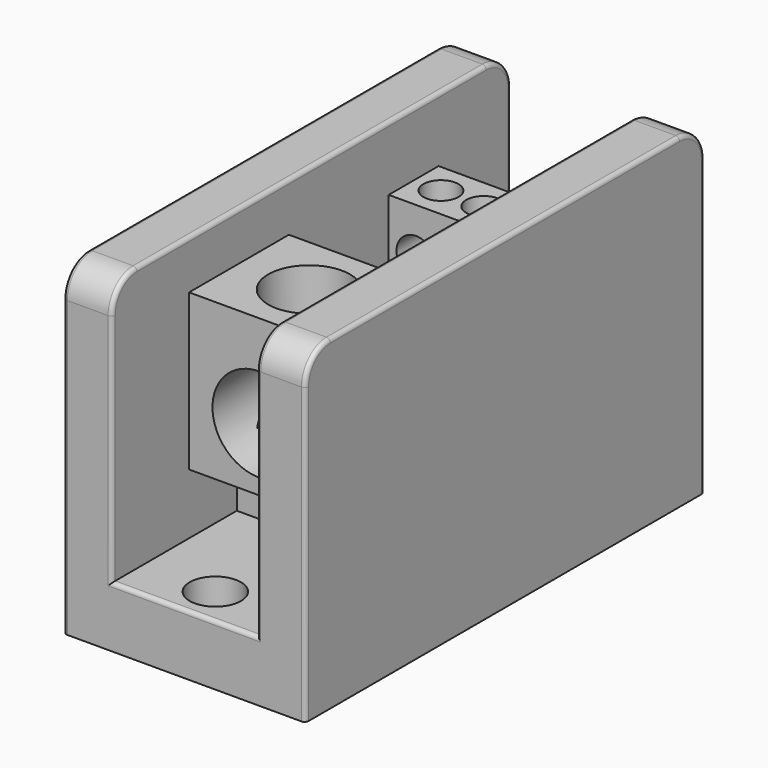
from build123d import *

# Parameters (mm, degrees)
F0_W      = 49.276
F0_H      = 101.6
F1_DEPTH  = 66.294
F2_W      = 29.464
F2_H      = 101.6
F3_DEPTH  = 53.975
F4_R      = 2.54
F5_DEPTH  = 12.319
F6_R      = 5.207
F7_DEPTH  = 6.477
F8_R      = 6.35
F9_R      = 0.8128
F10_W     = 29.464
F10_H     = 38.1
F11_DEPTH = 12.7
F12_W     = 28.575
F12_H     = 63.5
F13_DEPTH = 31.75
F14_R     = 9.525
F15_DEPTH = 25.4
F16_W     = 28.575
F16_H     = 12.7
F17_DEPTH = 3.175
F18_W     = 28.575
F18_H     = 25.4
F19_DEPTH = 16.66875
F20_R     = 8.334375
F21_DEPTH = 25.4
F22_R     = 3.571875
F23_DEPTH = 12.7
F24_R     = 3.571875
F25_DEPTH = 12.7
F26_R     = 3.96875
F27_DEPTH = 25.4


with BuildPart() as f1:
    # F0 (on Top) → F1 (new body)
    with BuildSketch(Plane.XY):
        Rectangle(F0_W, F0_H)
    extrude(amount=F1_DEPTH)

    # F2 (on face) → F3 (cut)
    with BuildSketch(Plane.XY.offset(66.294)):
        Rectangle(F2_W, F2_H)
    extrude(amount=-F3_DEPTH, mode=Mode.SUBTRACT)

    # F4 (on face) → F5 (cut)
    with BuildSketch(Plane.XY.offset(12.319)):
        with Locations((0, 42.926)):
            Circle(F4_R)
        with Locations((0, -42.926)):
            Circle(F4_R)
    extrude(amount=-F5_DEPTH, mode=Mode.SUBTRACT)

    # F6 (on face) → F7 (cut)
    with BuildSketch(Plane.XY.offset(12.319)):
        with Locations((0, 42.926)):
            Circle(F6_R)
        with Locations((0, -42.926)):
            Circle(F6_R)
    extrude(amount=-F7_DEPTH, mode=Mode.SUBTRACT)

    # F8
    f8_edges = [f1.edges().sort_by_distance(p)[0] for p in [
        (-19.685, 50.8, 66.294),
        (19.685, 50.8, 66.294),
        (19.685, -50.8, 66.294),
        (-19.685, -50.8, 66.294),
    ]]
    fillet(f8_edges, radius=F8_R)

    # F9
    f9_edges = [f1.edges().sort_by_distance(p)[0] for p in [
        (-24.638, 50.8, 29.972),
        (-24.638, 48.940128, 64.434128),
        (-24.638, 0, 66.294),
        (-24.638, -48.940128, 64.434128),
        (-24.638, -50.8, 29.972),
        (-14.732, -50.8, 36.1315),
        (-14.732, -48.940128, 64.434128),
        (-14.732, 0, 66.294),
        (-14.732, 48.940128, 64.434128),
        (-14.732, 50.8, 36.1315),
        (24.638, 50.8, 29.972),
        (24.638, 48.940128, 64.434128),
        (24.638, 0, 66.294),
        (24.638, -48.940128, 64.434128),
        (24.638, -50.8, 29.972),
        (14.732, -50.8, 36.1315),
        (14.732, -48.940128, 64.434128),
        (14.732, 0, 66.294),
        (14.732, 48.940128, 64.434128),
        (14.732, 50.8, 36.1315),
        (0, 50.8, 12.319),
        (0, -50.8, 12.319),
    ]]
    fillet(f9_edges, radius=F9_R)

    # F10 (on face) → F11 (join)
    with BuildSketch(Plane.XY.offset(12.319)):
        Rectangle(F10_W, F10_H)
    extrude(amount=F11_DEPTH)


with BuildPart() as f13:
    # F12 (on face) → F13 (new body)
    with BuildSketch(Plane.XY.offset(25.019)):
        Rectangle(F12_W, F12_H)
    extrude(amount=F13_DEPTH)

    # F14 (on face) → F15 (cut)
    with BuildSketch(Plane.XZ.offset(31.75)):
        with Locations((0, 37.719)):
            Circle(F14_R)
    extrude(amount=-F15_DEPTH, mode=Mode.SUBTRACT)

    # F16 (on face) → F17 (cut)
    with BuildSketch(Plane.XY.offset(56.769)):
        with Locations((0, 25.4)):
            Rectangle(F16_W, F16_H)
    extrude(amount=-F17_DEPTH, mode=Mode.SUBTRACT)

    # F18 (on face) → F19 (cut)
    with BuildSketch(Plane.XY.offset(56.769)):
        with Locations((0, 6.35)):
            Rectangle(F18_W, F18_H)
    extrude(amount=-F19_DEPTH, mode=Mode.SUBTRACT)

    # F20 (on face) → F21 (cut)
    with BuildSketch(Plane.XY.offset(56.769)):
        with Locations((0, -19.05)):
            Circle(F20_R)
    extrude(amount=-F21_DEPTH, mode=Mode.SUBTRACT)

    # F22 (on face) → F23 (cut)
    with BuildSketch(Plane.XY.offset(53.594)):
        with Locations((0, 25.4)):
            Circle(F22_R)
        with Locations((8.73125, 25.4)):
            Circle(F22_R)
        with Locations((-8.73125, 25.4)):
            Circle(F22_R)
    extrude(amount=-F23_DEPTH, mode=Mode.SUBTRACT)

    # F24 (on face) → F25 (cut)
    with BuildSketch(Plane.XY.offset(40.10025)):
        with Locations((0, 12.7)):
            Circle(F24_R)
        with Locations((8.73125, 12.7)):
            Circle(F24_R)
        with Locations((-8.73125, 12.7)):
            Circle(F24_R)
    extrude(amount=-F25_DEPTH, mode=Mode.SUBTRACT)

    # F26 (on face) → F27 (cut)
    with BuildSketch(Plane(origin=(0, 31.75, 0), x_dir=(-1, 0, 0), z_dir=(0, 1, 0))):
        with Locations((0, 31.369)):
            Circle(F26_R)
        with Locations((0, 44.069)):
            Circle(F26_R)
        with Locations((-8.73125, 31.369)):
            Circle(F26_R)
        with Locations((8.73125, 31.369)):
            Circle(F26_R)
        with Locations((8.73125, 44.069)):
            Circle(F26_R)
        with Locations((-8.73125, 44.069)):
            Circle(F26_R)
    extrude(amount=-F27_DEPTH, mode=Mode.SUBTRACT)


solid = Compound([f1.part, f13.part])
